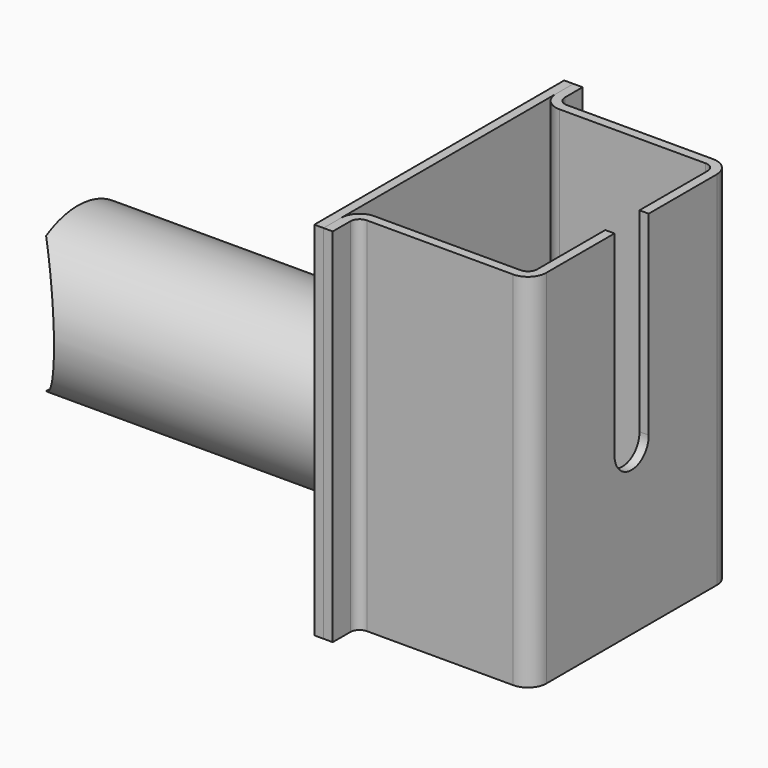
from build123d import *

# Parameters (mm, degrees)
F0_W      = 110
F0_H      = 24
F4_R      = 21.5
F5_DEPTH  = 110.001
F2_R      = 24
F6_DEPTH  = 25
F8_DEPTH  = 47.5
F10_DEPTH = 110
F12_DEPTH = 10


with BuildPart() as f1:
    # F0 (on Front) → F1 (revolve)
    with BuildSketch(Plane.XZ):
        with Locations((-55, 12)):
            Rectangle(F0_W, F0_H)
    revolve(axis=Axis((-55, 0, 0), (-1, 0, 0)))

    # F4 (on face) → F5 (cut, through all)
    with BuildSketch(Plane(origin=(-110, 0, 0), x_dir=(0, -1, 0), z_dir=(-1, 0, 0))):
        Circle(F4_R)
    extrude(amount=-F5_DEPTH, mode=Mode.SUBTRACT)

    # F2 (on Front) → F6 (cut, symmetric)
    with BuildSketch(Plane.XZ):
        with Locations((-122, 0)):
            Circle(F2_R)
    extrude(amount=F6_DEPTH, both=True, mode=Mode.SUBTRACT)

    # F7 (on Front) → F8 (join, symmetric)
    with BuildSketch(Plane.XZ):
        Polygon((0, 74), (0, 0), (0, -36), (2.8, -36), (2.8, 74), align=None)
    extrude(amount=F8_DEPTH, both=True)


with BuildPart() as f10:
    # F9 (on face) → F10 (new body)
    with BuildSketch(Plane.XY.offset(74)):
        with BuildLine():
            ThreePointArc((55.7, -32.4), (54.879899, -34.379899), (52.9, -35.2))
            Line((52.9, -35.2), (8.4, -35.2))
            ThreePointArc((8.4, -35.2), (4.440202, -36.840202), (2.8, -40.8))
            Line((2.8, -40.8), (2.8, -47.5))
            Line((2.8, -47.5), (5.6, -47.5))
            Line((5.6, -47.5), (5.6, -40.8))
            ThreePointArc((5.6, -40.8), (6.420101, -38.820101), (8.4, -38))
            Line((8.4, -38), (52.9, -38))
            ThreePointArc((52.9, -38), (56.859798, -36.359798), (58.5, -32.4))
            Line((58.5, -32.4), (58.5, 32.4))
            ThreePointArc((58.5, 32.4), (56.859798, 36.359798), (52.9, 38))
            Line((52.9, 38), (8.4, 38))
            ThreePointArc((8.4, 38), (6.420101, 38.820101), (5.6, 40.8))
            Line((5.6, 40.8), (5.6, 47.5))
            Line((5.6, 47.5), (2.8, 47.5))
            Line((2.8, 47.5), (2.8, 40.8))
            ThreePointArc((2.8, 40.8), (4.440202, 36.840202), (8.4, 35.2))
            Line((8.4, 35.2), (52.9, 35.2))
            ThreePointArc((52.9, 35.2), (54.879899, 34.379899), (55.7, 32.4))
            Line((55.7, 32.4), (55.7, -32.4))
        make_face()
    extrude(amount=-F10_DEPTH)

    # F11 (on face) → F12 (cut)
    with BuildSketch(Plane.YZ.offset(58.5)):
        with BuildLine():
            Line((-6.5, 74), (-6.5, 14.5))
            ThreePointArc((-6.5, 14.5), (0.102206, 8.000804), (6.496786, 14.704387))
            Line((6.496786, 14.704387), (6.5, 74))
            Line((6.5, 74), (-6.5, 74))
        make_face()
    extrude(amount=-F12_DEPTH, mode=Mode.SUBTRACT)


solid = Compound([f1.part, f10.part])
